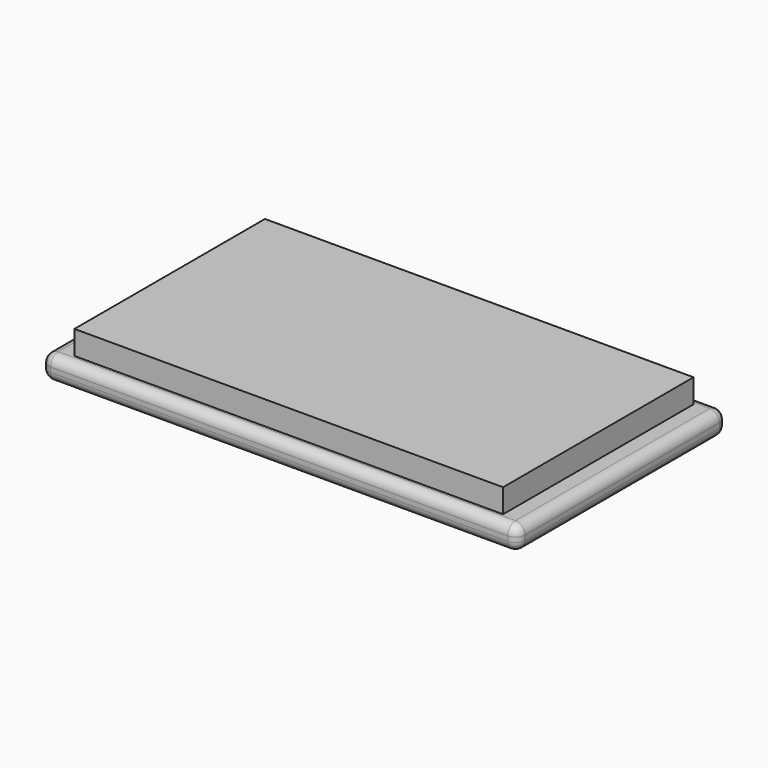
from build123d import *

# Parameters (mm, degrees)
F0_W     = 127
F0_H     = 69.85
F1_DEPTH = 6.35
F2_W     = 114.3
F2_H     = 63.5
F3_DEPTH = 6.35
F4_R     = 2.54


with BuildPart() as f1:
    # F0 (on Top) → F1 (new body)
    with BuildSketch(Plane.XY):
        Rectangle(F0_W, F0_H)
    extrude(amount=F1_DEPTH)

    # F2 (on face) → F3 (join, symmetric)
    with BuildSketch(Plane.XY.offset(6.35)):
        Rectangle(F2_W, F2_H)
    extrude(amount=F3_DEPTH, both=True)

    # F4
    f4_edges = [f1.edges().sort_by_distance(p)[0] for p in [
        (0, -34.925, 0),
        (-63.5, 0, 0),
        (-63.5, 0, 6.35),
        (-63.5, -34.925, 3.175),
        (0, -34.925, 6.35),
        (63.5, 0, 0),
        (63.5, 0, 6.35),
        (63.5, 34.925, 3.175),
        (0, 34.925, 6.35),
        (63.5, -34.925, 3.175),
        (0, 34.925, 0),
        (-63.5, 34.925, 3.175),
    ]]
    fillet(f4_edges, radius=F4_R)


solid = f1.part
